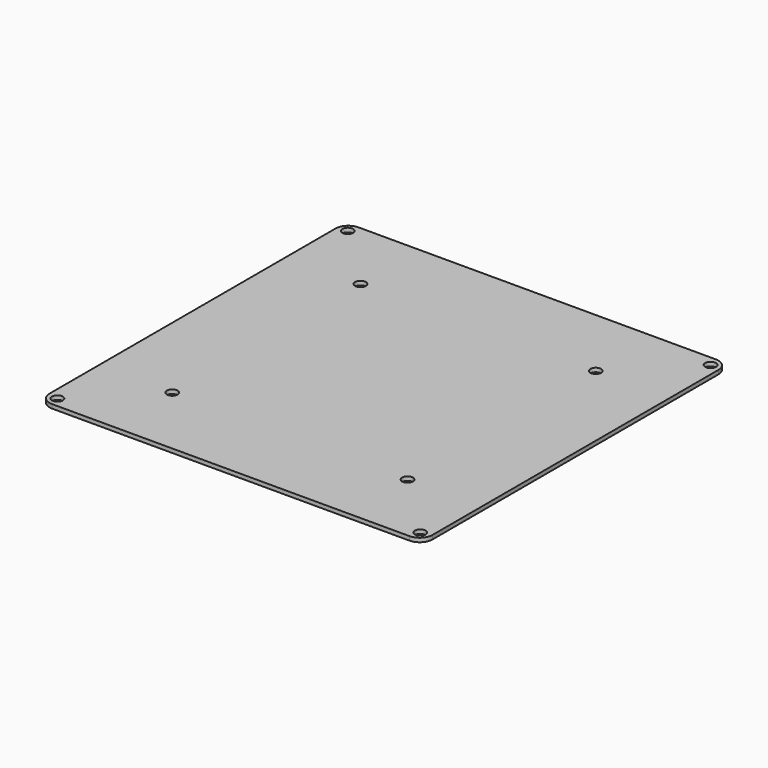
from build123d import *

# Parameters (mm, degrees)
F0_W     = 152.4
F0_H     = 152.4
F0_R     = 2.15265
F1_DEPTH = 1.5875
F2_R     = 5.08


with BuildPart() as f1:
    # F0 (on Top) → F1 (new body)
    with BuildSketch(Plane.XY):
        Rectangle(F0_W, F0_H)
        with Locations((-72.23125, -72.23125)):
            Circle(F0_R, mode=Mode.SUBTRACT)
        with Locations((-46.83125, -46.83125)):
            Circle(F0_R, mode=Mode.SUBTRACT)
        with Locations((72.23125, -72.23125)):
            Circle(F0_R, mode=Mode.SUBTRACT)
        with Locations((46.83125, -46.83125)):
            Circle(F0_R, mode=Mode.SUBTRACT)
        with Locations((-46.83125, 46.83125)):
            Circle(F0_R, mode=Mode.SUBTRACT)
        with Locations((-72.23125, 72.23125)):
            Circle(F0_R, mode=Mode.SUBTRACT)
        with Locations((46.83125, 46.83125)):
            Circle(F0_R, mode=Mode.SUBTRACT)
        with Locations((72.23125, 72.23125)):
            Circle(F0_R, mode=Mode.SUBTRACT)
    extrude(amount=F1_DEPTH)

    # F2
    f2_edges = [f1.edges().sort_by_distance(p)[0] for p in [
        (-76.2, 76.2, 0.79375),
        (76.2, 76.2, 0.79375),
        (76.2, -76.2, 0.79375),
        (-76.2, -76.2, 0.79375),
    ]]
    fillet(f2_edges, radius=F2_R)


solid = f1.part
